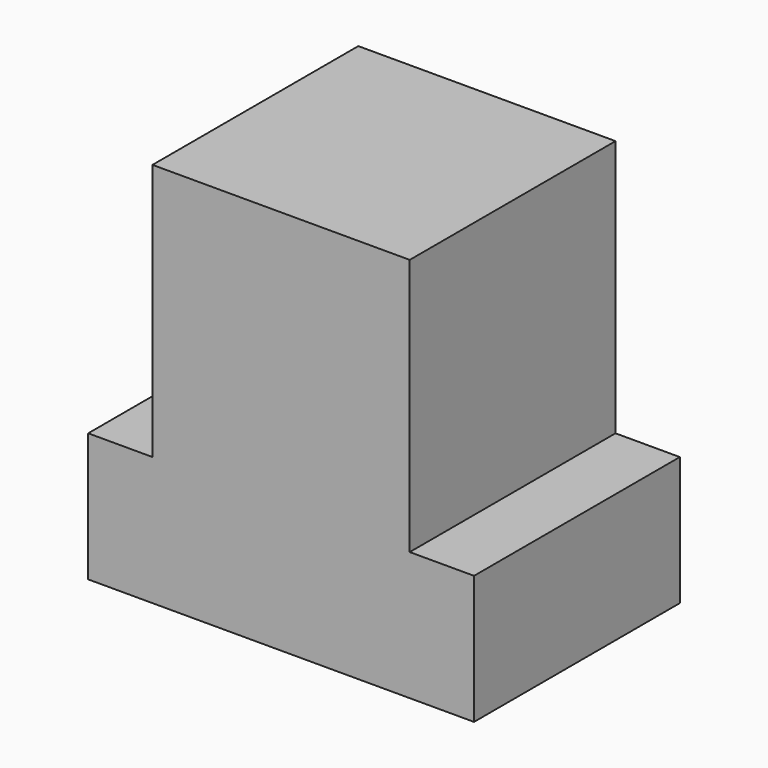
from build123d import *

# Parameters (mm, degrees)
F0_W     = 40
F0_H     = 40
F1_DEPTH = 40


with BuildPart() as f1:
    # F0 (on Front) → F1 (new body)
    with BuildSketch(Plane.XZ):
        Polygon((0, 20), (0, 0), (60, 0), (60, 20), (50, 20), (10, 20), align=None)
        with Locations((30, 40)):
            Rectangle(F0_W, F0_H)
    extrude(amount=-F1_DEPTH)


solid = f1.part
